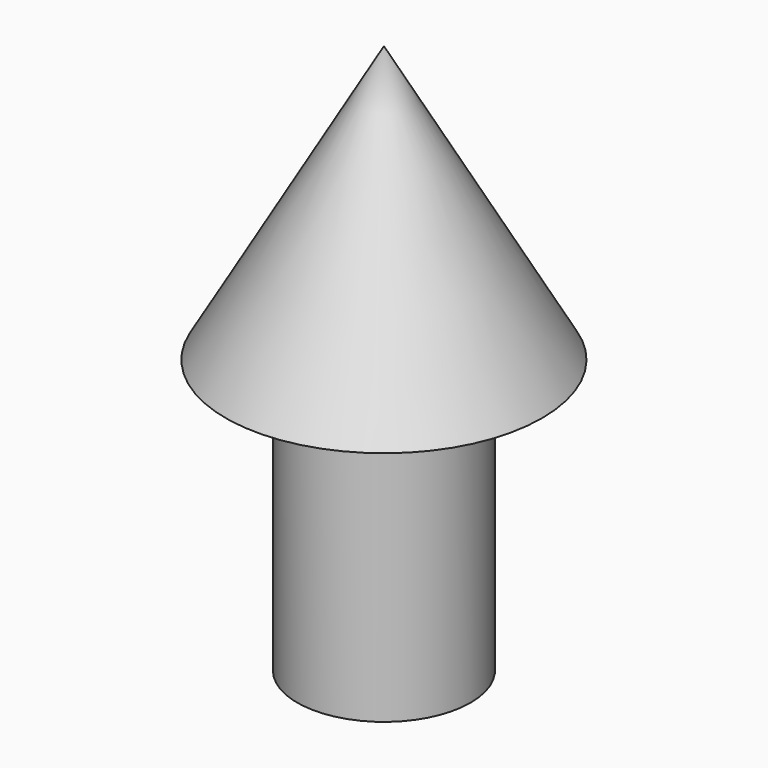
from build123d import *

# Parameters (mm, degrees)
F2_R     = 16.088832
F3_DEPTH = 50.8


with BuildPart() as f1:
    # F0 (on Front) → F1 (revolve)
    with BuildSketch(Plane.XZ):
        Polygon((29.356185, -12.95126), (0, 38.278166), (0, -12.95126), align=None)
    revolve(axis=Axis((0, 0, 12.663453), (0, 0, 1)))

    # F2 (on face) → F3 (join)
    with BuildSketch(Plane(origin=(0, 0, -12.95126), x_dir=(1, 0, 0), z_dir=(0, 0, -1))):
        Circle(F2_R)
        Circle(F2_R)
    extrude(amount=F3_DEPTH)


solid = f1.part
